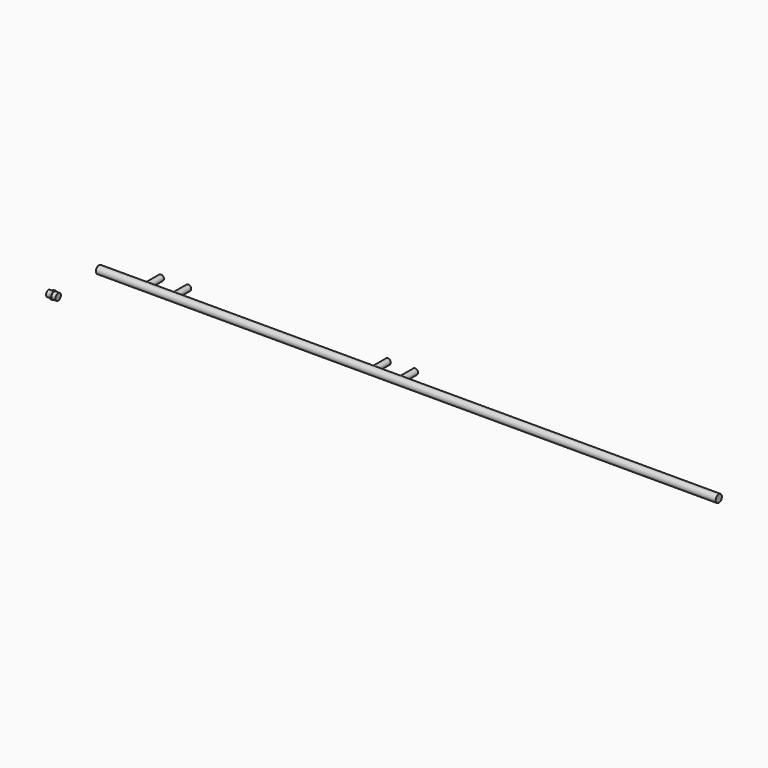
from build123d import *

# Parameters (mm, degrees)
F0_R          = 3.175
F1_DEPTH      = 508
F3_R          = 2.3876
F4_DEPTH      = 2.54
F4_DEPTH_BACK = 12.7
F5_R          = 3.175
F6_DEPTH      = 1.524
F7_R          = 2.794
F8_DEPTH      = 3.302
F9_R          = 2.54
F10_DEPTH     = 3.048


with BuildPart() as f1:
    # F0 (on Right) → F1 (new body)
    with BuildSketch(Plane.YZ):
        Circle(F0_R)
    extrude(amount=F1_DEPTH)

    # F3 (on offset) → F4 (join, two sides)
    with BuildSketch(Plane.XZ.offset(-3.175)) as f4_sk:
        with Locations((246.38, 0)):
            Circle(F3_R)
        with Locations((224.028, 0)):
            Circle(F3_R)
        with Locations((60.452, 0)):
            Circle(F3_R)
        with Locations((38.1, 0)):
            Circle(F3_R)
    extrude(amount=F4_DEPTH)
    extrude(f4_sk.sketch, amount=-F4_DEPTH_BACK)


with BuildPart() as f6:
    # F5 (on Right) → F6 (new body)
    with BuildSketch(Plane.YZ):
        with Locations((-45.976562, 0)):
            Circle(F5_R)
    extrude(amount=-F6_DEPTH)

    # F7 (on face) → F8 (join)
    with BuildSketch(Plane.YZ):
        with Locations((-45.976562, 0)):
            Circle(F7_R)
    extrude(amount=F8_DEPTH)

    # F9 (on face) → F10 (join)
    with BuildSketch(Plane(origin=(-1.524, 0, 0), x_dir=(0, -1, 0), z_dir=(-1, 0, 0))):
        with Locations((45.976562, 0)):
            Circle(F9_R)
    extrude(amount=F10_DEPTH)


solid = Compound([f1.part, f6.part])
